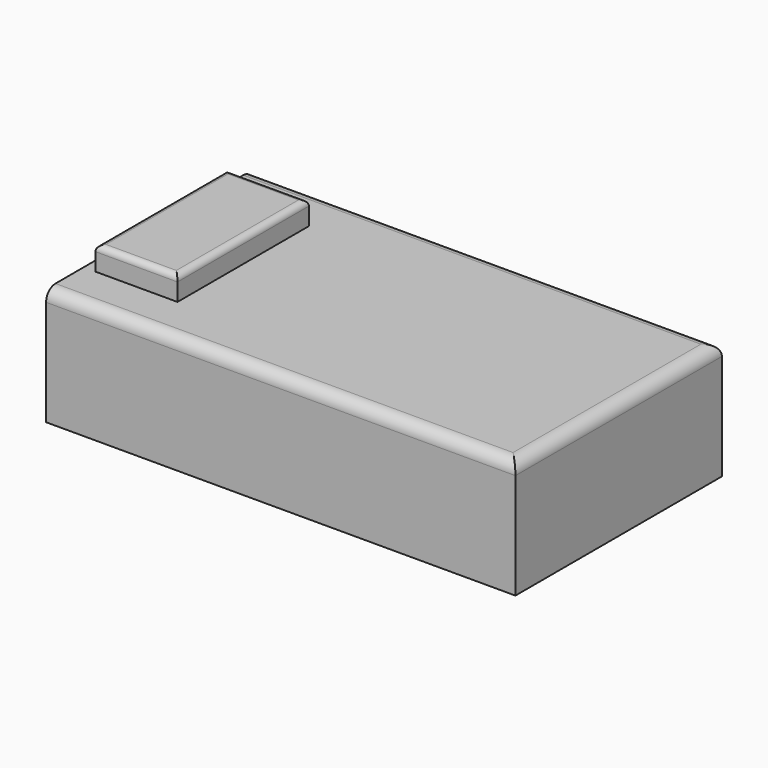
from build123d import *

# Parameters (mm, degrees)
F0_W     = 2000
F0_H     = 1100
F1_DEPTH = 500
F2_W     = 350
F2_H     = 700
F3_DEPTH = 100
F4_R     = 25
F5_R     = 50


with BuildPart() as f1:
    # F0 (on Top) → F1 (new body)
    with BuildSketch(Plane.XY):
        with Locations((1000, 550)):
            Rectangle(F0_W, F0_H)
    extrude(amount=F1_DEPTH)

    # F2 (on face) → F3 (join)
    with BuildSketch(Plane.XY.offset(500)):
        with Locations((225, 550)):
            Rectangle(F2_W, F2_H)
    extrude(amount=F3_DEPTH)

    # F4
    f4_edges = [f1.edges().sort_by_distance(p)[0] for p in [
        (225, 200, 600),
        (50, 550, 600),
        (400, 550, 600),
        (225, 900, 600),
    ]]
    fillet(f4_edges, radius=F4_R)

    # F5
    f5_edges = [f1.edges().sort_by_distance(p)[0] for p in [
        (1000, 0, 500),
        (2000, 550, 500),
        (1000, 1100, 500),
    ]]
    fillet(f5_edges, radius=F5_R)


solid = f1.part
